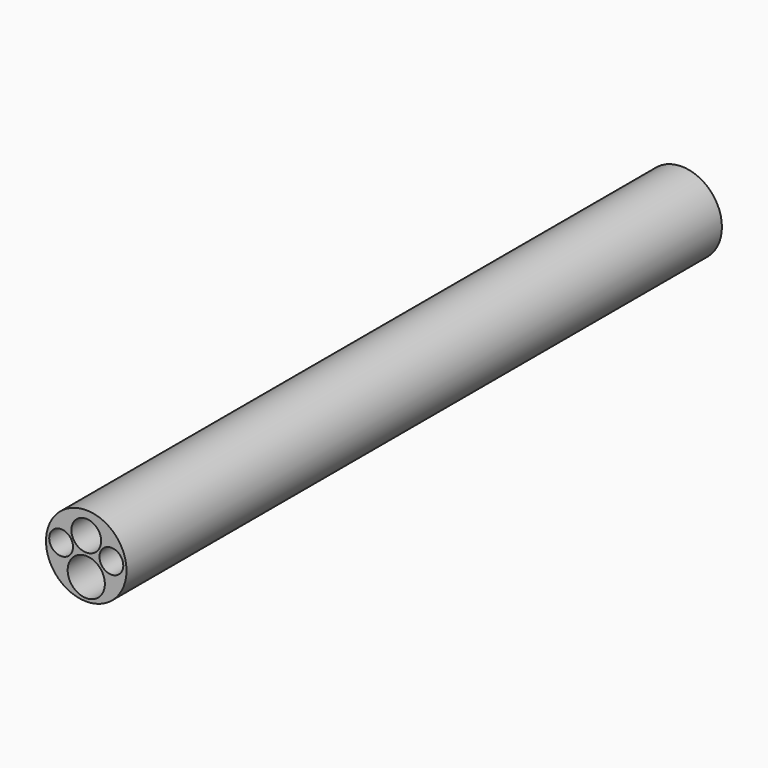
from build123d import *

# Parameters (mm, degrees)
F0_R     = 1.37362
F0_R_2   = 0.635
F0_R_3   = 0.4064
F0_R_4   = 0.508
F1_DEPTH = 25.4


with BuildPart() as f1:
    # F0 (on Front) → F1 (new body)
    with BuildSketch(Plane.XZ):
        Circle(F0_R)
        with Locations((0, -0.63702)):
            Circle(F0_R_2, mode=Mode.SUBTRACT)
        with Locations((-0.857486, 0.11839)):
            Circle(F0_R_3, mode=Mode.SUBTRACT)
        with Locations((0, 0.60758)):
            Circle(F0_R_4, mode=Mode.SUBTRACT)
        with Locations((0.857486, 0.11839)):
            Circle(F0_R_3, mode=Mode.SUBTRACT)
    extrude(amount=F1_DEPTH)


solid = f1.part
